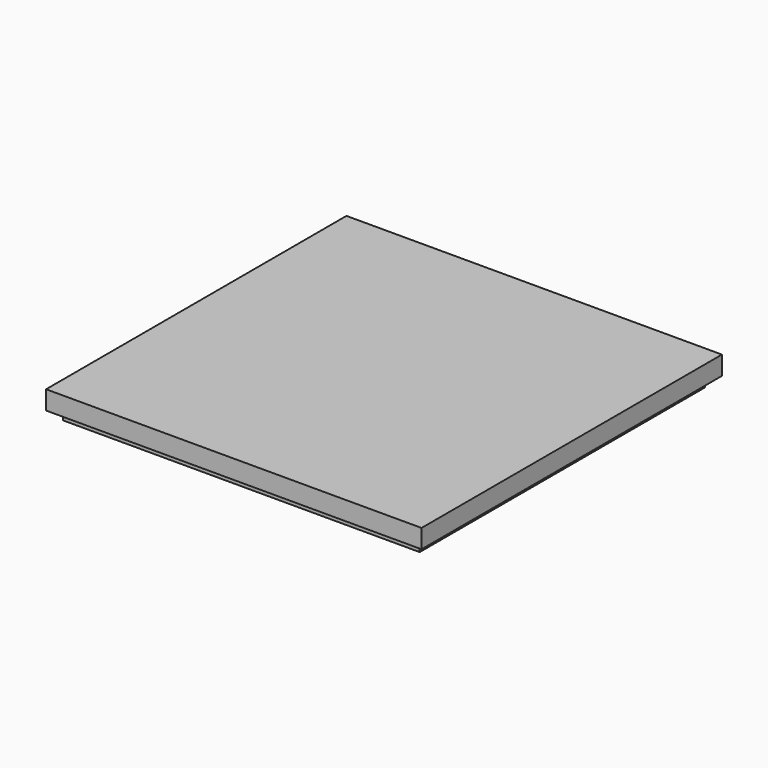
from build123d import *

# Parameters (mm, degrees)
BOX006_W     = 190
BOX006_H     = 190
BOX006_DEPTH = 15
BOX005_W     = 200
BOX005_H     = 200
BOX005_DEPTH = 10


with BuildPart() as cube006:
    # Box006 → Box006 (new body)
    with BuildSketch(Plane(origin=(5, 5, 91), x_dir=(1, 0, 0), z_dir=(0, 0, 1))):
        with Locations((95, 95)):
            Rectangle(BOX006_W, BOX006_H)
    extrude(amount=BOX006_DEPTH)


with BuildPart() as lid:
    # Box005 → Box005 (new body)
    with BuildSketch(Plane.XY.offset(96)):
        with Locations((100, 100)):
            Rectangle(BOX005_W, BOX005_H)
    extrude(amount=BOX005_DEPTH)

    # Fusion002: union Cube006
    add(cube006.part)


solid = lid.part
